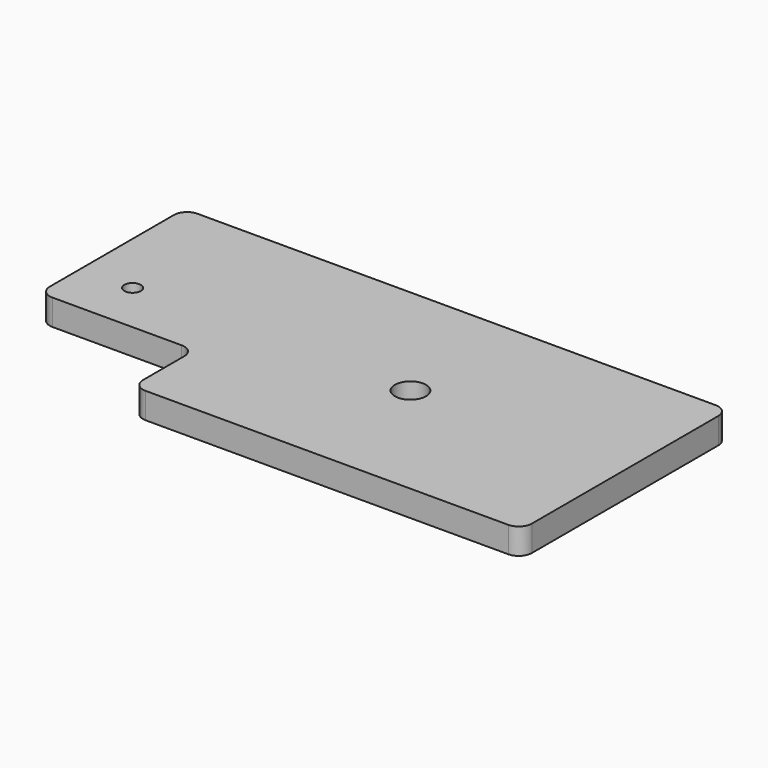
from build123d import *

# Parameters (mm, degrees)
F0_R     = 1.016
F0_R_2   = 1.905
F1_DEPTH = 3.175
F2_R     = 1.6002


with BuildPart() as f1:
    # F0 (on Top) → F1 (new body)
    with BuildSketch(Plane.XY):
        with BuildLine():
            Line((19.05, 7.9248), (19.05, 0))
            Line((19.05, 0), (65.0748, 0))
            ThreePointArc((65.0748, 0), (66.206312, 0.468688), (66.675, 1.6002))
            Line((66.675, 1.6002), (66.675, 30.1498))
            ThreePointArc((66.675, 30.1498), (66.206312, 31.281312), (65.0748, 31.75))
            Line((65.0748, 31.75), (1.6002, 31.75))
            ThreePointArc((1.6002, 31.75), (0.468688, 31.281312), (0, 30.1498))
            Line((0, 30.1498), (0, 9.525))
            Line((0, 9.525), (17.4498, 9.525))
            ThreePointArc((17.4498, 9.525), (18.581312, 9.056312), (19.05, 7.9248))
        make_face()
        with Locations((6.35, 15.875)):
            Circle(F0_R, mode=Mode.SUBTRACT)
        with Locations((40.386, 15.875)):
            Circle(F0_R_2, mode=Mode.SUBTRACT)
    extrude(amount=F1_DEPTH)

    # F2
    f2_edges = [f1.edges().sort_by_distance(p)[0] for p in [
        (0, 9.525, 1.5875),
        (19.05, 0, 1.5875),
    ]]
    fillet(f2_edges, radius=F2_R)


solid = f1.part
